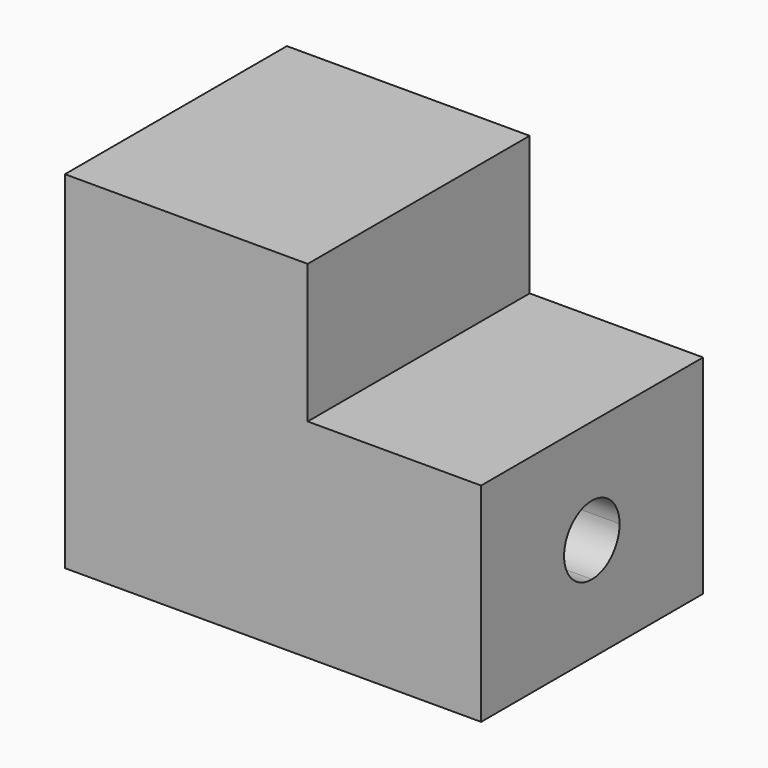
from build123d import *

# Parameters (mm, degrees)
F0_W     = 152.4
F0_H     = 127
F1_DEPTH = 101.6
F2_DEPTH = 101.6
F3_W     = 63.5
F3_H     = 50.8
F4_DEPTH = 101.601
F7_DEPTH = 152.401


with BuildPart() as f1:
    # F0 (on Front) → F1 (new body)
    with BuildSketch(Plane.XZ):
        with Locations((76.2, 63.5)):
            Rectangle(F0_W, F0_H)
    extrude(amount=F1_DEPTH)

    # F0 (on Front) → F2 (join)
    with BuildSketch(Plane.XZ):
        with Locations((76.2, 63.5)):
            Rectangle(F0_W, F0_H)
    extrude(amount=F2_DEPTH)

    # F3 (on face) → F4 (cut, through all)
    with BuildSketch(Plane.XZ.offset(101.6)):
        with Locations((120.65, 101.6)):
            Rectangle(F3_W, F3_H)
    extrude(amount=-F4_DEPTH, mode=Mode.SUBTRACT)

    # F6 (on face) → F7 (cut, through all)
    with BuildSketch(Plane(origin=(0, 0, 0), x_dir=(0, -1, 0), z_dir=(-1, 0, 0))):
        with BuildLine():
            ThreePointArc((50.8, 25.326185), (59.861955, 29.000665), (63.626555, 38.025554))
            ThreePointArc((63.626555, 38.025554), (50.963778, 50.7255), (38.226773, 38.1))
            Line((38.226773, 38.1), (50.8, 38.1))
            Line((50.8, 38.1), (50.8, 25.326185))
        make_face()
        with BuildLine():
            Line((50.8, 38.1), (38.226773, 38.1))
            ThreePointArc((38.226773, 38.1), (41.875515, 29.116644), (50.8, 25.326185))
            Line((50.8, 25.326185), (50.8, 38.1))
        make_face()
    extrude(amount=-F7_DEPTH, mode=Mode.SUBTRACT)


solid = f1.part
